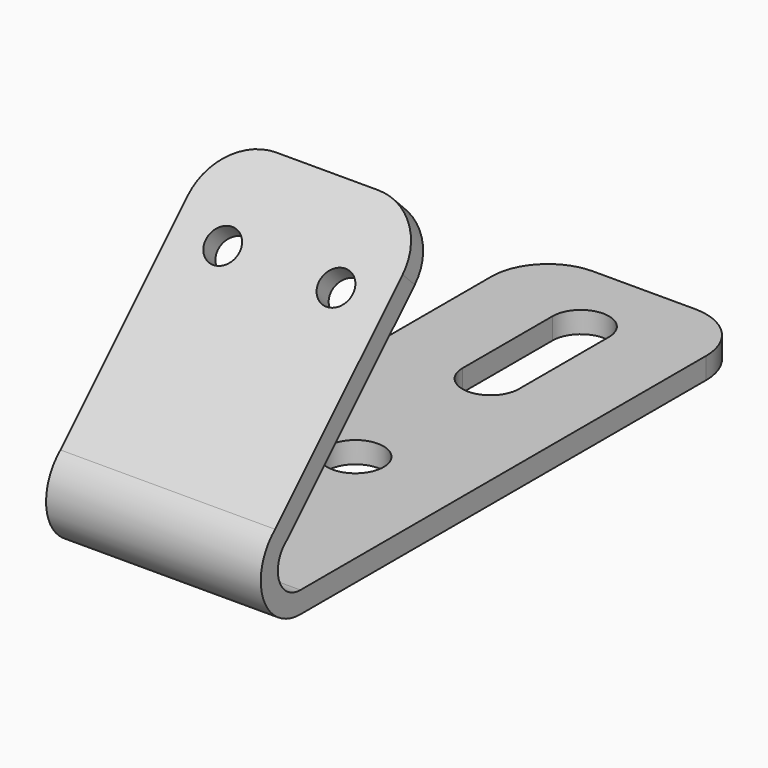
from build123d import *

# Parameters (mm, degrees)
F1_DEPTH = 241.935
F2_R     = 127
F3_R     = 38.1
F4_DEPTH = 68.58
F5_R     = 127
F6_R     = 63.5
F7_DEPTH = 177.8


with BuildPart() as f1:
    # F0 (on Right) → F1 (new body, symmetric)
    with BuildSketch(Plane.YZ):
        with BuildLine():
            Line((608.7743921717, -13.9136621412), (608.7743921717, 34.3463378588))
            Line((608.7743921717, 34.3463378588), (-661.2256078283, 34.3463378588))
            ThreePointArc((-661.2256078283, 34.3463378588), (-721.8482198443, 78.4837377478), (-698.4622342201, 149.7319435709))
            Line((-698.4622342201, 149.7319435709), (-249.4494281666, 598.7447496243))
            Line((-249.4494281666, 598.7447496243), (-283.5744014267, 632.8697228844))
            Line((-283.5744014267, 632.8697228844), (-732.5872074802, 183.8569168309))
            ThreePointArc((-732.5872074802, 183.8569168309), (-766.3513418469, 59.9137971182), (-661.2256078283, -13.9136621412))
            Line((-661.2256078283, -13.9136621412), (608.7743921717, -13.9136621412))
        make_face()
    extrude(amount=F1_DEPTH, both=True)

    # F2
    f2_edges = [f1.edges().sort_by_distance(p)[0] for p in [
        (241.935, -266.511915, 615.807236),
        (-241.935, -266.511915, 615.807236),
    ]]
    fillet(f2_edges, radius=F2_R)

    # F3 (on face) → F4 (cut)
    with BuildSketch(Plane(origin=(0, -458.2220621555, 458.2220621555), x_dir=(1, 0, 0), z_dir=(0, -0.7071067812, 0.7071067812))):
        with Locations((-127.635, 56.4890904395)):
            Circle(F3_R)
        with Locations((127.635, 56.4890904395)):
            Circle(F3_R)
    extrude(amount=-F4_DEPTH, mode=Mode.SUBTRACT)

    # F5
    f5_edges = [f1.edges().sort_by_distance(p)[0] for p in [
        (241.935, 608.774392, 10.216338),
        (-241.935, 608.774392, 10.216338),
    ]]
    fillet(f5_edges, radius=F5_R)

    # F6 (on face) → F7 (cut)
    with BuildSketch(Plane(origin=(0, 0, -13.9136621412), x_dir=(1, 0, 0), z_dir=(0, 0, -1))):
        with Locations((0, 204.0256078283)):
            Circle(F6_R)
        with BuildLine():
            ThreePointArc((63.5, -176.9743921717), (0, -113.4743921717), (-63.5, -176.9743921717))
            Line((-63.5, -176.9743921717), (-63.5, -430.9743921717))
            ThreePointArc((-63.5, -430.9743921717), (0, -494.4743921717), (63.5, -430.9743921717))
            Line((63.5, -430.9743921717), (63.5, -176.9743921717))
        make_face()
    extrude(amount=-F7_DEPTH, mode=Mode.SUBTRACT)


solid = f1.part
